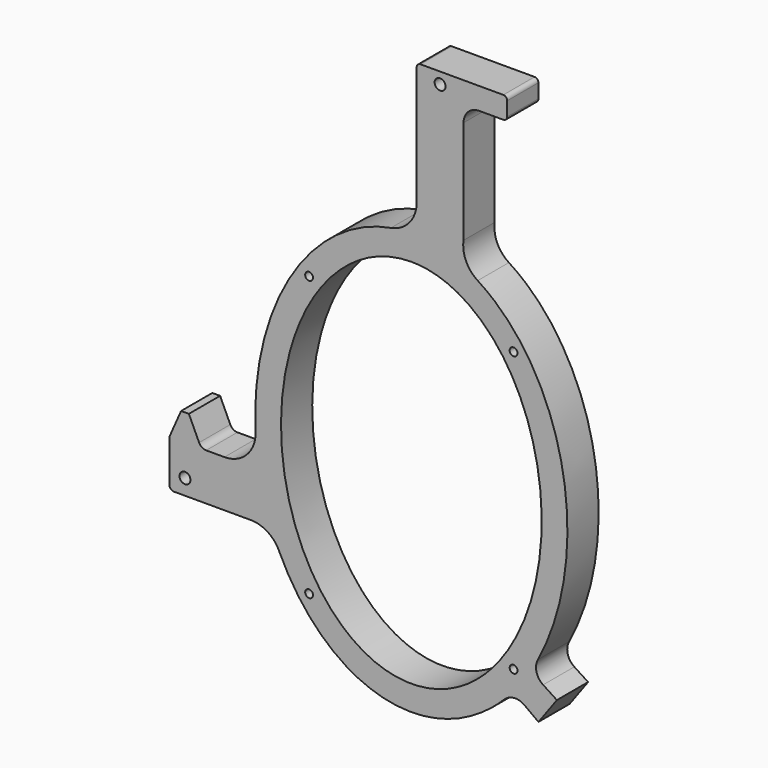
from build123d import *

# Parameters (mm, degrees)
F0_R     = 3.5
F0_R_2   = 2.5
F0_R_3   = 5
F0_W     = 5
F0_H     = 15
F0_H_2   = 2
F1_DEPTH = 25
F2_DEPTH = 25


with BuildPart() as f1:
    # F0 (on Front) → F1 (new body)
    with BuildSketch(Plane.XZ):
        with BuildLine():
            ThreePointArc((3.4310483717, 153.5335206791), (-1.2381869311, 140.6895472363), (-13.0657170082, 133.8427272163))
            add(Edge.make_bspline(
                [(-13.0657170082, 133.8427272163), (-106.109697578, 117.2890573736), (-99.7716944898, -9.1171466788)],
                knots=[0.1310318031, 0.1310318031, 0.1310318031, 1.6383821886, 1.6383821886, 1.6383821886], degree=2, weights=[1, 0.7291787792, 1]))
            ThreePointArc((-99.7716944898, -9.1171466788), (-105.2546931224, -23.9021775768), (-119.7466016284, -30.1186878933))
            Line((-119.7466016284, -30.1186878933), (-131.4278459388, -30.1186878933))
            ThreePointArc((-131.4278459388, -30.1186878933), (-134.119310498, -29.332476987), (-135.9643515411, -27.221095304))
            Line((-135.9643515411, -27.221095304), (-142.5, -13.1186878933))
            Line((-142.5, -13.1186878933), (-142.5, -28.1186878933))
            Line((-142.5, -28.1186878933), (-142.5, -30.1186878933))
            Line((-142.5, -30.1186878933), (-147.5, -30.1186878933))
            Line((-147.5, -30.1186878933), (-147.5, -28.1186878933))
            Line((-147.5, -28.1186878933), (-147.5, -13.1186878933))
            Line((-147.5, -13.1186878933), (-155, -30.1186878933))
            Line((-155, -30.1186878933), (-155, -50.1186878933))
            Line((-155, -50.1186878933), (-155, -57.1186878933))
            ThreePointArc((-155, -57.1186878933), (-154.1213203436, -59.2400082368), (-152, -60.1186878933))
            Line((-152, -60.1186878933), (-102.8720403586, -60.1186878933))
            ThreePointArc((-102.8720403586, -60.1186878933), (-92.112021633, -63.2598030836), (-84.7318487342, -71.6964881907))
            add(Edge.make_bspline(
                [(-84.7318487342, -71.6964881907), (-27.3388509801, -195.3126471426), (59.5098403753, -108.4931336193)],
                knots=[2.1306770045, 2.1306770045, 2.1306770045, 3.7789807423, 3.7789807423, 3.7789807423], degree=2, weights=[1, 0.6791797143, 1]))
            ThreePointArc((59.5098403753, -108.4931336193), (65.8072785012, -105.5952672693), (72.4759161821, -107.4885786045))
            Line((72.4759161821, -107.4885786045), (81.4500670309, -114.0398467952))
            Line((81.4500670309, -114.0398467952), (93.2424592272, -97.8862253348))
            Line((93.2424592272, -97.8862253348), (84.4281995262, -92.1575518141))
            ThreePointArc((84.4281995262, -92.1575518141), (80.1924350893, -86.2620204766), (81.0606995154, -79.0547250752))
            add(Edge.make_bspline(
                [(81.0606995154, -79.0547250752), (151.702469188, 52.9567311651), (42.5136872667, 122.1924249079)],
                knots=[4.0867805785, 4.0867805785, 4.0867805785, 5.844072208, 5.844072208, 5.844072208], degree=2, weights=[1, 0.6381942829, 1]))
            ThreePointArc((42.5136872667, 122.1924249079), (35.0513298863, 130.7308392292), (33.4310483717, 141.9542961213))
            Line((33.4310483717, 141.9542961213), (33.4310483717, 208.2394117117))
            ThreePointArc((33.4310483717, 208.2394117117), (36.3599805598, 215.3104795236), (43.4310483717, 218.2394117117))
            Line((43.4310483717, 218.2394117117), (58.9310483717, 218.2394117117))
            ThreePointArc((58.9310483717, 218.2394117117), (60.6988153247, 218.9716447587), (61.4310483717, 220.7394117117))
            Line((61.4310483717, 220.7394117117), (61.4310483717, 229.7687804699))
            ThreePointArc((61.4310483717, 229.7687804699), (60.6988153247, 231.5365474229), (58.9310483717, 232.2687804699))
            Line((58.9310483717, 232.2687804699), (33.4310483717, 232.2687804699))
            Line((33.4310483717, 232.2687804699), (5.9310483717, 232.2687804699))
            ThreePointArc((5.9310483717, 232.2687804699), (4.1632814187, 231.5365474229), (3.4310483717, 229.7687804699))
            Line((3.4310483717, 229.7687804699), (3.4310483717, 153.5335206791))
        make_face()
        with Locations((-145, -50.1186878933)):
            Circle(F0_R, mode=Mode.SUBTRACT)
        with Locations((-65.5, -89.5)):
            Circle(F0_R_2, mode=Mode.SUBTRACT)
        with Locations((65.5, -89.5)):
            Circle(F0_R_2, mode=Mode.SUBTRACT)
        with BuildLine():
            add(Edge.make_bspline(
                [(0, 119), (-144.626242432, 119), (-72.313121216, -59.5), (0, -238), (72.313121216, -59.5), (144.626242432, 119), (0, 119)],
                knots=[0, 0, 0, 2.0943951024, 2.0943951024, 4.1887902048, 4.1887902048, 6.2831853072, 6.2831853072, 6.2831853072], degree=2, weights=[1, 0.5, 1, 0.5, 1, 0.5, 1]))
        make_face(mode=Mode.SUBTRACT)
        with Locations((-65.5, 89.5)):
            Circle(F0_R_2, mode=Mode.SUBTRACT)
        with Locations((65.5, 89.5)):
            Circle(F0_R_2, mode=Mode.SUBTRACT)
        with Locations((18.4310483717, 225)):
            Circle(F0_R, mode=Mode.SUBTRACT)
        with Locations((45.4310483717, 225)):
            Circle(F0_R_3, mode=Mode.SUBTRACT)
        with Locations((-145, -20.6186878933)):
            Rectangle(F0_W, F0_H)
        with Locations((-145, -29.1186878933)):
            Rectangle(F0_W, F0_H_2)
    extrude(amount=F1_DEPTH)

    # F0 (on Front) → F2 (join)
    with BuildSketch(Plane.XZ):
        with Locations((45.4310483717, 225)):
            Circle(F0_R_3)
    extrude(amount=F2_DEPTH)


solid = f1.part
